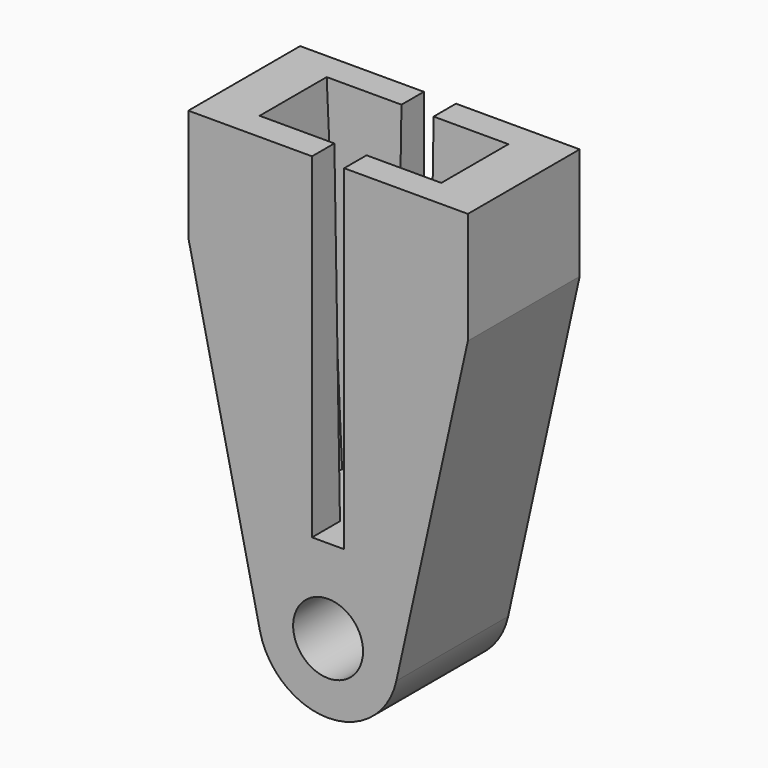
from build123d import *

# Parameters (mm, degrees)
F0_R     = 2.5
F1_DEPTH = 5
F2_W     = 2.3
F2_H     = 10
F3_DEPTH = 24
F5_W     = 10
F5_H     = 5
F7_W     = 13
F7_H     = 6


with BuildPart() as f1:
    # F0 (on Front) → F1 (new body, symmetric)
    with BuildSketch(Plane.XZ):
        with BuildLine():
            ThreePointArc((-4.881421, -1.082464), (0, -5), (4.881421, -1.082464))
            Line((4.881421, -1.082464), (10, 22))
            Line((10, 22), (10, 30))
            Line((10, 30), (-10, 30))
            Line((-10, 30), (-10, 22))
            Line((-10, 22), (-4.881421, -1.082464))
        make_face()
        Circle(F0_R, mode=Mode.SUBTRACT)
    extrude(amount=F1_DEPTH, both=True)

    # F2 (on face) → F3 (cut)
    with BuildSketch(Plane.XY.offset(30)):
        Rectangle(F2_W, F2_H)
    extrude(amount=-F3_DEPTH, mode=Mode.SUBTRACT)

    # F5 (on offset) → F8 section 0
    with BuildSketch(Plane.XY.offset(6)):
        Rectangle(F5_W, F5_H)
    # F7 (on offset) → F8 section 1
    with BuildSketch(Plane.XY.offset(30)):
        Rectangle(F7_W, F7_H)
    loft(mode=Mode.SUBTRACT)


solid = f1.part
